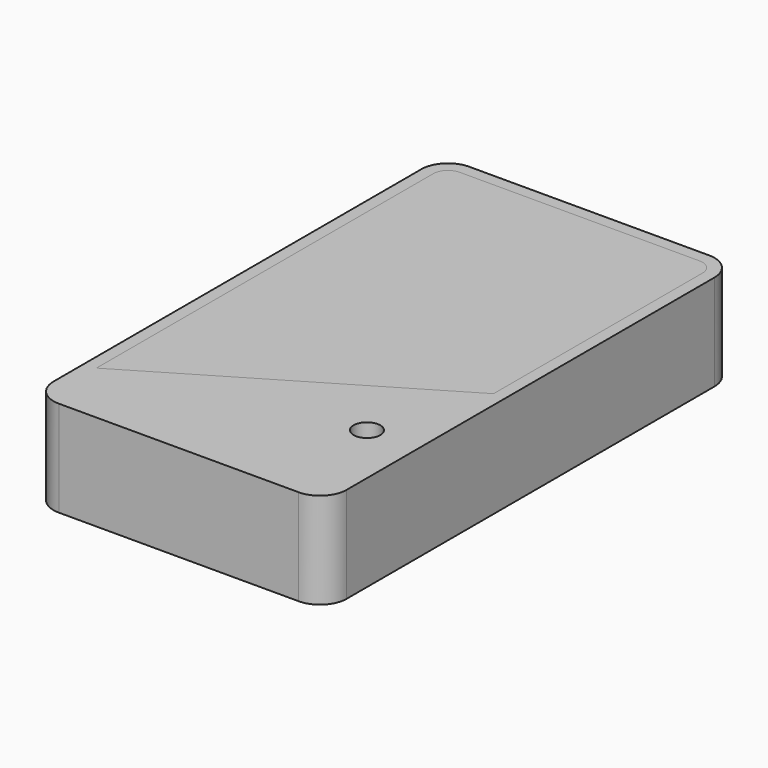
from build123d import *

# Parameters (mm, degrees)
F0_W          = 35.2
F0_H          = 68.2
F1_DEPTH      = 10
F2_W          = 6.5
F2_H          = 14
F3_DEPTH      = 0.5
F4_W          = 40
F4_H          = 73
F5_DEPTH      = 1.2
F6_W          = 44
F6_H          = 77
F6_W_2        = 40.4
F6_H_2        = 73.4
F7_DEPTH      = 11.2
F7_DEPTH_BACK = 0.2
F8_W          = 44
F8_H          = 77
F9_DEPTH      = 3
F10_R         = 4
F11_W         = 14
F11_H         = 1.2
F12_DEPTH     = 8
F13_W         = 1.2
F13_H         = 6
F14_DEPTH     = 6
F16_DEPTH     = 2
F18_DEPTH     = 2
F19_R         = 2
F20_DEPTH     = 3
F22_DEPTH     = 2


with BuildPart() as f1:
    # F0 (on Top) → F1 (new body)
    with BuildSketch(Plane.XY):
        Rectangle(F0_W, F0_H)
    extrude(amount=F1_DEPTH)

    # F2 (on face) → F3 (cut)
    with BuildSketch(Plane.XY.offset(10)):
        with Locations((13.35, -26)):
            Rectangle(F2_W, F2_H)
    extrude(amount=-F3_DEPTH, mode=Mode.SUBTRACT)


with BuildPart() as f5:
    # F4 (on face) → F5 (new body)
    with BuildSketch(Plane(origin=(0, 0, 0), x_dir=(1, 0, 0), z_dir=(0, 0, -1))):
        Rectangle(F4_W, F4_H)
    extrude(amount=F5_DEPTH)

    # F11 (on face) → F12 (join)
    with BuildSketch(Plane.XY):
        with Locations((0, -35.9)):
            Rectangle(F11_W, F11_H)
    extrude(amount=F12_DEPTH)

    # F13 (on face) → F14 (join)
    with BuildSketch(Plane.XY):
        Polygon((20, 36.5), (-20, 36.5), (-20, 35.3), (-18.8, 35.3), (18.8, 35.3), (20, 35.3), align=None)
        with Locations((-19.4, 32.3)):
            Rectangle(F13_W, F13_H)
        with Locations((19.4, 32.3)):
            Rectangle(F13_W, F13_H)
    extrude(amount=F14_DEPTH)


with BuildPart() as f7:
    # F6 (on face) → F7 (new body, two sides)
    with BuildSketch(Plane.XY.offset(10)) as f7_sk:
        Rectangle(F6_W, F6_H)
        Rectangle(F6_W_2, F6_H_2, mode=Mode.SUBTRACT)
    extrude(amount=-F7_DEPTH)
    extrude(f7_sk.sketch, amount=F7_DEPTH_BACK)

    # F8 (on face) → F9 (join)
    with BuildSketch(Plane.XY.offset(10.2)):
        Rectangle(F8_W, F8_H)
    extrude(amount=F9_DEPTH)

    # F10
    f10_edges = [f7.edges().sort_by_distance(p)[0] for p in [
        (-22, 38.5, 6),
        (-22, -38.5, 6),
        (22, 38.5, 6),
        (22, -38.5, 6),
    ]]
    fillet(f10_edges, radius=F10_R)

    # F15 (on face) → F16 (cut)
    with BuildSketch(Plane.XY.offset(13.2)):
        with BuildLine():
            Line((-20.2, 34.5), (-20.2, -34.5))
            ThreePointArc((-20.2, -34.5), (-19.5556349186, -36.0556349186), (-18, -36.7))
            Line((-18, -36.7), (18, -36.7))
            ThreePointArc((18, -36.7), (19.5556349186, -36.0556349186), (20.2, -34.5))
            Line((20.2, -34.5), (20.2, 34.5))
            ThreePointArc((20.2, 34.5), (19.5556349186, 36.0556349186), (18, 36.7))
            Line((18, 36.7), (-18, 36.7))
            ThreePointArc((-18, 36.7), (-19.5556349186, 36.0556349186), (-20.2, 34.5))
        make_face()
    extrude(amount=-F16_DEPTH, mode=Mode.SUBTRACT)

    # F17 (on face) → F18 (join, through all)
    with BuildSketch(Plane.XY.offset(11.2)):
        with BuildLine():
            Line((20.2, -34.5), (20.2, -4.7))
            Line((20.2, -4.7), (-20.2, -28.7))
            Line((-20.2, -28.7), (-20.2, -34.5))
            ThreePointArc((-20.2, -34.5), (-19.5556349186, -36.0556349186), (-18, -36.7))
            Line((-18, -36.7), (18, -36.7))
            ThreePointArc((18, -36.7), (19.5556349186, -36.0556349186), (20.2, -34.5))
        make_face()
    extrude(amount=F18_DEPTH)

    # F19 (on face) → F20 (cut)
    with BuildSketch(Plane.XY.offset(13.2)):
        with Locations((14.4, -21.2)):
            Circle(F19_R)
    extrude(amount=-F20_DEPTH, mode=Mode.SUBTRACT)


with BuildPart() as f22:
    # F21 (on face) → F22 (new body)
    with BuildSketch(Plane.XY.offset(11.2)):
        with BuildLine():
            ThreePointArc((-18, 36.7), (-19.5556349186, 36.0556349186), (-20.2, 34.5))
            Line((-20.2, 34.5), (-20.2, -28.7))
            Line((-20.2, -28.7), (20.2, -4.7))
            Line((20.2, -4.7), (20.2, 34.5))
            ThreePointArc((20.2, 34.5), (19.5556349186, 36.0556349186), (18, 36.7))
            Line((18, 36.7), (-18, 36.7))
        make_face()
    extrude(amount=F22_DEPTH)


solid = Compound([f1.part, f5.part, f7.part, f22.part])
